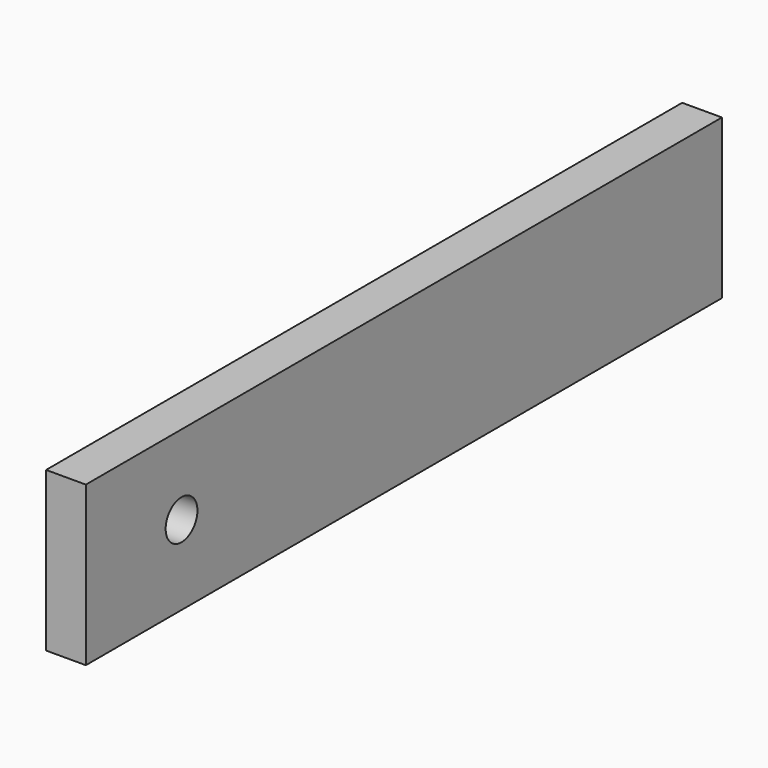
from build123d import *

# Parameters (mm, degrees)
F0_W     = 5
F0_H     = 20
F1_DEPTH = 100
F2_R     = 2
F3_DEPTH = 25
F4_R     = 2.5
F5_DEPTH = 5.001


with BuildPart() as f1:
    # F0 (on Front) → F1 (new body)
    with BuildSketch(Plane.XZ):
        with Locations((2.5, -10)):
            Rectangle(F0_W, F0_H)
    extrude(amount=F1_DEPTH)

    # F2 (on face) → F3 (cut)
    with BuildSketch(Plane(origin=(0, 0, 0), x_dir=(-1, 0, 0), z_dir=(0, 1, 0))):
        with Locations((-2.5, -10)):
            Circle(F2_R)
    extrude(amount=-F3_DEPTH, mode=Mode.SUBTRACT)

    # F4 (on face) → F5 (cut, through all)
    with BuildSketch(Plane.YZ.offset(5)):
        with Locations((-84.955528, -10)):
            Circle(F4_R)
    extrude(amount=-F5_DEPTH, mode=Mode.SUBTRACT)


solid = f1.part
